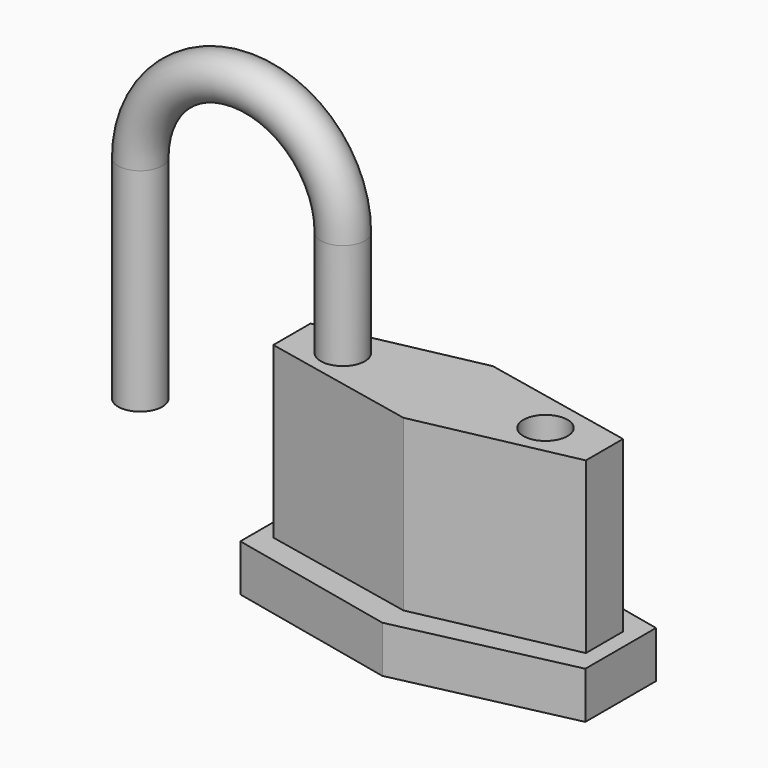
from build123d import *

# Parameters (mm, degrees)
F1_DEPTH  = 13.462
F3_DEPTH  = 48.768
F4_R      = 6.35
F5_DEPTH  = 30.48
F9_R      = 6.35
F10_DEPTH = 30.48


with BuildPart() as f1:
    # F0 (on Top) → F1 (new body)
    with BuildSketch(Plane.XY):
        Polygon((-9.7772604225, 30.3706423903), (-59.3730975842, 19.3755100023), (-59.3730975842, -6.0244899977), (-9.7772604225, -17.0196223858), (39.8185767392, -6.0244899977), (39.8185767392, 19.3755100023), align=None)
    extrude(amount=F1_DEPTH)

    # F2 (on face) → F3 (join)
    with BuildSketch(Plane.XY.offset(13.462)):
        Polygon((-9.7772604225, 22.7506423903), (-54.7072728696, 13.3510200045), (-54.7072728696, 0), (-9.7772604225, -9.3996223858), (35.1527520247, 0), (35.1527520247, 13.3510200045), align=None)
    extrude(amount=F3_DEPTH)

    # F4 (on face) → F5 (cut)
    with BuildSketch(Plane.XY.offset(62.23)):
        with Locations((18.2055775076, 6.6755100023)):
            Circle(F4_R)
    extrude(amount=-F5_DEPTH, mode=Mode.SUBTRACT)

    # F9 (on face) → F10 (cut)
    with BuildSketch(Plane.XY.offset(62.23)):
        with Locations((-40.0592088699, 6.6755100023)):
            Circle(F9_R)
    extrude(amount=-F10_DEPTH, mode=Mode.SUBTRACT)


with BuildPart() as f8:
    # F8: sweep along a path in F7
    with BuildLine(Plane.XZ) as f8_path:
        Line((-40.0592088699, 62.23), (-40.0592088699, 92.71))
        ThreePointArc((-40.0592088699, 92.71), (-69.1915991699, 121.8423903), (-98.3239894699, 92.71))
        Line((-98.3239894699, 92.71), (-98.3239894699, 31.75))
    # F4 (on face) → F8 (sweep)
    with BuildSketch(Plane.XY.offset(62.23)):
        with Locations((-40.0592088699, 6.6755100023)):
            Circle(F4_R)
    sweep(path=f8_path.line)


solid = Compound([f1.part, f8.part])
